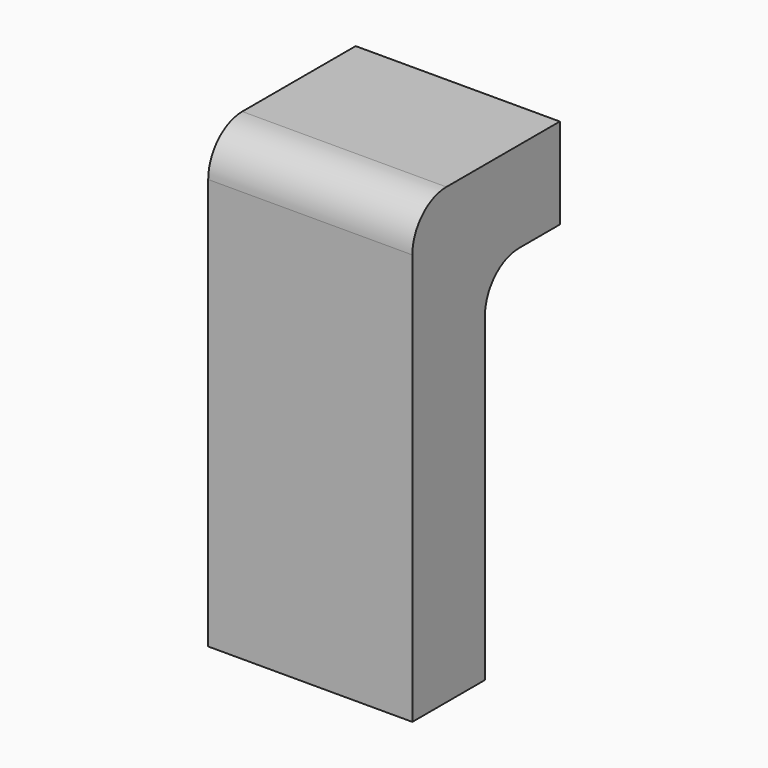
from build123d import *

# Parameters (mm, degrees)
F1_DEPTH = 36
F2_R     = 15
F3_T     = -2.5
F4_W     = 67
F4_H     = 27
F5_DEPTH = 3
F6_DEPTH = 100
F7_DEPTH = 5


with BuildPart() as f1:
    # F0 (on Right) → F1 (new body, symmetric)
    with BuildSketch(Plane.YZ):
        Polygon((-28, 0), (0, 0), (0, 32), (-60, 32), (-60, 0), (-60, -28), (-28, -28), align=None)
    extrude(amount=F1_DEPTH, both=True)

    # F2
    f2_edges = [f1.edges().sort_by_distance(p)[0] for p in [
        (0, -60, 32),
        (0, -28, 0),
    ]]
    fillet(f2_edges, radius=F2_R)

    # F3
    f3_openings = [f1.faces().sort_by_distance(p)[0] for p in [
        (0, 0, 16),
    ]]
    offset(amount=F3_T, openings=f3_openings)

    # F4 (on face) → F5 (cut)
    with BuildSketch(Plane(origin=(0, 0, -28), x_dir=(1, 0, 0), z_dir=(0, 0, -1))):
        with Locations((0, 44)):
            Rectangle(F4_W, F4_H)
    extrude(amount=-F5_DEPTH, mode=Mode.SUBTRACT)

    # F6 (add): a face of the model
    f6_faces = [f1.faces().sort_by_distance(p)[0] for p in [
        (-35.2120913759, -44, -28),
    ]]
    extrude(f6_faces, amount=F6_DEPTH)

    # F7 (add): a face of the model
    f7_faces = [f1.faces().sort_by_distance(p)[0] for p in [
        (0, 0, 0.7879086241),
    ]]
    extrude(f7_faces, amount=F7_DEPTH)


solid = f1.part
